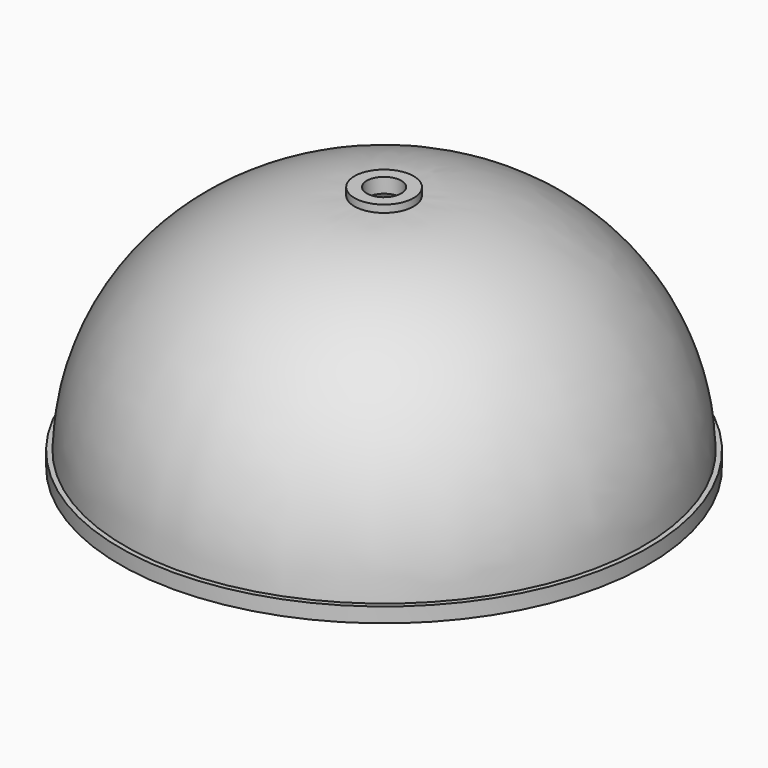
from build123d import *


with BuildPart() as f1:
    # F0 (on Right) → F1 (revolve)
    with BuildSketch(Plane.YZ):
        Polygon((-53.5, 3), (-53.5, 0), (-51, 0), (-51, 3), (-52.499621, 3), align=None)
        Polygon((-6, 48.5), (-6, 47), (-3.5, 47), (-3.5, 50), (-6, 50), align=None)
        with BuildLine():
            Line((-52.499621, 3), (-51, 3))
            ThreePointArc((-51, 3), (-37.468238, 34.172062), (-6, 47))
            Line((-6, 47), (-6, 48.5))
            ThreePointArc((-6, 48.5), (-38.516914, 35.244572), (-52.499621, 3.033704))
            Line((-52.499621, 3.033704), (-52.499621, 3))
        make_face()
    revolve(axis=Axis((0, 0, 18.903965), (0, 0, 1)))


solid = f1.part
